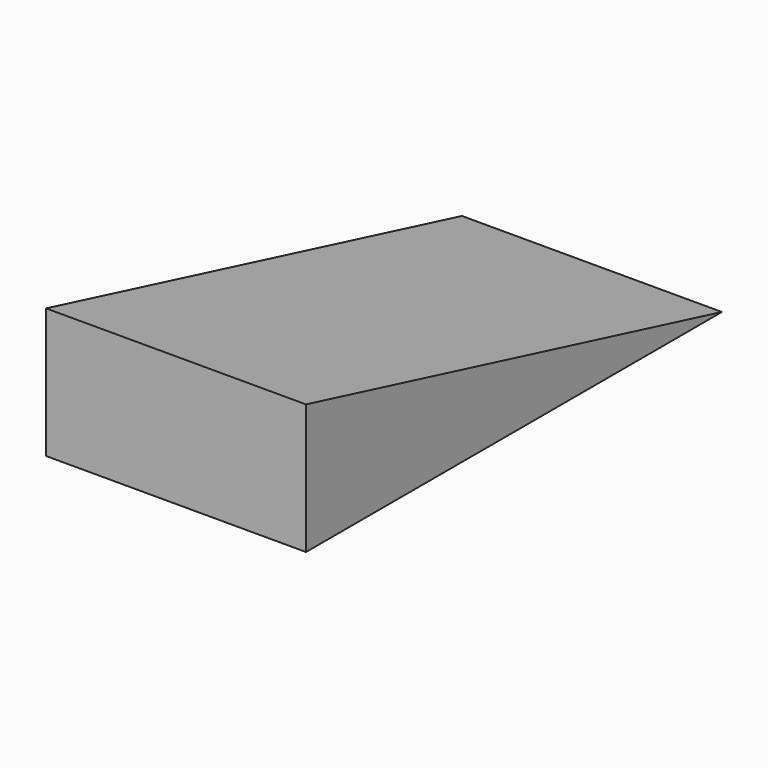
from build123d import *

# Parameters (mm, degrees)
PAD_DEPTH = 20


with BuildPart() as part:
    # Sketch → Pad (new body, symmetric)
    with BuildSketch(Plane.YZ):
        Polygon((0, 0), (0, 20), (80, 0), align=None)
    extrude(amount=PAD_DEPTH, both=True)


solid = part.part
